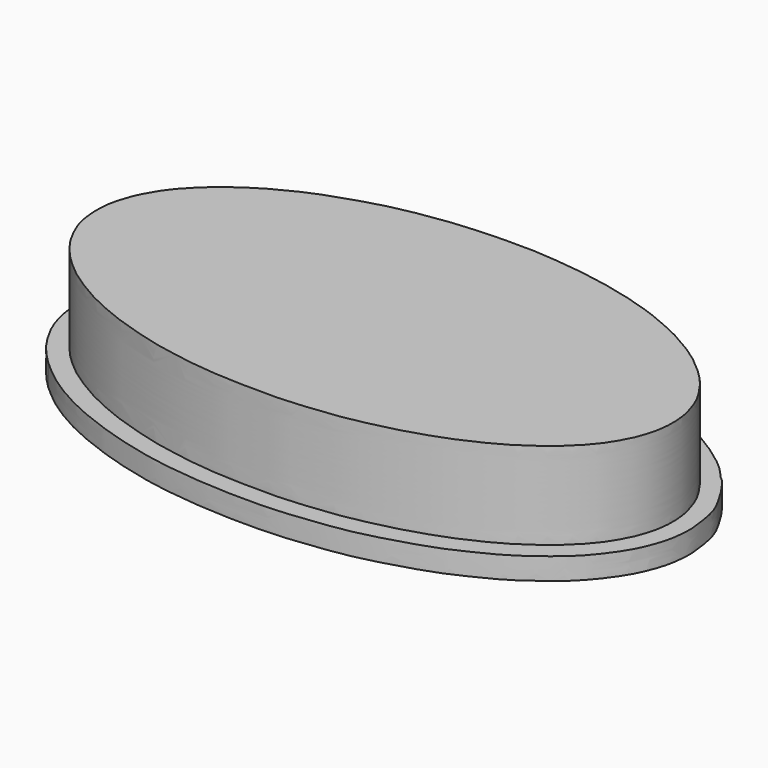
from build123d import *

# Parameters (mm, degrees)
F1_DEPTH = 25
F3_DEPTH = 20
F5_DEPTH = 5


with BuildPart() as f1:
    # F0 (on Top) → F1 (new body)
    with BuildSketch(Plane.XY):
        with BuildLine():
            add(Edge.make_bspline(
                [(34.0358316898, 17.3169132322), (33.4476789202, 17.5641404403), (32.2501782137, 18.0675041437), (30.4332568911, 18.8456503452), (26.5458099621, 21.0873539656), (24.065624831, 22.5549921237), (22.9424586309, 23.4723896584), (22.177769364, 23.9857726274), (21.7977464199, 24.240905419)],
                knots=[0, 0, 0, 0, 0.1524729552, 0.310440554, 0.548010114, 0.7392155609, 0.8703995536, 1, 1, 1, 1], degree=3))
            add(Edge.make_bspline(
                [(49.5530627668, 25.829186663), (49.2175624968, 26.1391159644), (48.4116629646, 26.8835919047), (46.3148833163, 28.9749191652), (44.4418731155, 29.9966643529), (43.4222602257, 30.8915696338), (40.3882785014, 32.2530635342), (38.1947362187, 32.7222442953), (36.7999978107, 32.7985698768), (35.5265061431, 32.7141553577), (34.6830293233, 32.6598792656), (33.6135211449, 32.0640992413), (33.1227722393, 31.8898564342), (32.0607615175, 31.0214181243), (31.3202387643, 30.0279013881), (31.0024455257, 28.7470802702), (30.8033739317, 28.3941141253), (30.639734315, 26.6818680994), (30.7773491516, 25.231773865), (31.1055848533, 23.5755229672), (31.7674728648, 21.7174406636), (32.5641603394, 19.8079329362), (33.5180350388, 18.1933600421), (34.0358316898, 17.3169132322)],
                knots=[0, 0, 0, 0, 0.046915721, 0.112695461, 0.1675430294, 0.2117088676, 0.2804891366, 0.3382933945, 0.3827652198, 0.4248388254, 0.4604244318, 0.5011356446, 0.5292923111, 0.572397878, 0.6164440192, 0.6583397554, 0.6829771094, 0.7311553636, 0.7785153787, 0.8273599893, 0.8804069601, 0.9350807024, 1, 1, 1, 1], degree=3))
            add(Edge.make_bspline(
                [(72.4661573768, 14.2735354602), (72.2503797037, 14.7846202656), (71.7467316351, 15.9775466305), (70.5855801926, 18.9823828978), (69.1331352852, 22.1196687726), (67.469869869, 25.2570284082), (65.5859966075, 28.0399807216), (63.3559909395, 30.3197692529), (61.9392648641, 31.3412090407), (60.2415334024, 32.2041848477), (58.3158261144, 32.5676774149), (56.7576875025, 32.1428926086), (55.4362116191, 31.7886878528), (53.7775728419, 30.7218799588), (52.2690188634, 29.3775118718), (51.09519616, 27.9212071835), (50.0955300637, 26.5650845574), (49.5530627668, 25.829186663)],
                knots=[0, 0, 0, 0, 0.0587868134, 0.137214683, 0.2198078442, 0.3022524755, 0.3836021207, 0.4611373913, 0.5188822036, 0.5787275215, 0.6397533973, 0.6946395127, 0.7456425071, 0.8068278183, 0.8691557751, 0.928997579, 1, 1, 1, 1], degree=3))
            add(Edge.make_bspline(
                [(95.3443199396, 25.829186663), (94.76514894, 26.6499634525), (93.605624146, 28.2931932383), (91.5410664023, 30.4849283896), (89.0581967349, 32.1219811288), (86.7685142442, 32.5498095573), (85.1705889296, 32.231310845), (83.3593928349, 31.6495928763), (80.657038907, 29.6609778895), (78.4698925646, 27.0063582933), (75.7484781589, 22.4368208371), (73.5913154677, 17.4571929016), (72.8078888813, 15.2404716233), (72.4661573768, 14.2735354602)],
                knots=[0, 0, 0, 0, 0.0892458193, 0.1786738982, 0.2671263381, 0.3441152747, 0.4082575946, 0.4783649797, 0.5709965073, 0.6669123211, 0.7860642359, 0.9066809937, 1, 1, 1, 1], degree=3))
            add(Edge.make_bspline(
                [(110.4229912162, 32.4321612716), (110.1992176029, 32.5079711219), (109.6668205349, 32.6883361858), (108.1704596353, 32.8698933903), (106.6576511404, 32.7421438682), (104.8067670081, 32.2761475322), (103.152086762, 31.5934274656), (101.1449077923, 30.6612586873), (98.5713095857, 28.9384101279), (96.7961238368, 27.351368053), (95.8155906874, 26.323302682), (95.3443199396, 25.829186663)],
                knots=[0, 0, 0, 0, 0.0715720068, 0.1702824834, 0.2719952784, 0.383493134, 0.4919287013, 0.6131342603, 0.7566552208, 0.8830419184, 1, 1, 1, 1], degree=3))
            add(Edge.make_bspline(
                [(113.9691248536, 28.8860332221), (113.8392852153, 29.2115324869), (113.5736065016, 29.8775712026), (112.8809534873, 30.8056987688), (111.858888257, 31.8587186714), (110.9070560621, 32.2388442049), (110.4229912162, 32.4321612716)],
                knots=[0, 0, 0, 0, 0.2257902927, 0.4620135676, 0.726401018, 1, 1, 1, 1], degree=3))
            add(Edge.make_bspline(
                [(110.9501197934, 17.3611138016), (111.0982394691, 17.585491889), (111.4789149936, 18.162155629), (112.5045884429, 20.1684724866), (113.499644758, 22.6669163147), (114.0631400063, 24.9611715507), (114.3154765684, 27.4037837217), (114.0749154089, 28.4332911366), (113.9691248536, 28.8860332221)],
                knots=[0, 0, 0, 0, 0.1128556626, 0.2900451163, 0.4870134032, 0.6715502675, 0.8555590618, 1, 1, 1, 1], degree=3))
            add(Edge.make_bspline(
                [(133.2026124001, 37.2338891029), (132.8170797937, 36.1804835436), (131.9409064256, 33.786481372), (128.4159602767, 28.9237509801), (124.9202151813, 25.6334106199), (119.765219259, 21.5666916039), (114.3079376948, 18.9309011926), (111.9671517822, 17.8365785347), (110.9501197934, 17.3611138016)],
                knots=[0, 0, 0, 0, 0.1411542771, 0.3207915916, 0.4856966922, 0.6758049102, 0.8591427028, 1, 1, 1, 1], degree=3))
            add(Edge.make_bspline(
                [(97.2121655941, 72.645150125), (97.5740366542, 72.5825349905), (98.3372578729, 72.450473589), (99.6275654245, 72.0335835137), (101.5644693044, 71.5729973592), (103.172183776, 71.102643774), (105.515069503, 70.328766432), (108.4907982473, 69.2170916536), (110.6192103862, 68.3644699643), (112.6640294755, 67.4370403502), (114.1710564811, 66.7912055924), (117.3265754705, 65.2233687527), (120.5549639336, 63.3079480409), (122.6641262641, 61.9116517758), (125.4404661366, 59.7500252854), (127.2636767367, 58.0830964656), (128.6371875593, 56.5869482408), (129.7584027165, 55.2635631844), (130.7255305473, 53.8193763895), (131.6902436253, 52.3264938292), (132.3709272255, 51.0632189902), (133.3205088542, 48.8126997585), (133.7339664667, 47.2737689824), (134.1661687952, 45.1735209887), (134.2363830593, 43.4369920353), (134.1476576256, 40.9224900858), (133.7697094215, 38.9831041937), (133.388357102, 37.8068200538), (133.2026124001, 37.2338891029)],
                knots=[0, 0, 0, 0, 0.0277879951, 0.058607581, 0.0955495418, 0.1297239881, 0.1710562276, 0.2182229525, 0.2587272302, 0.2972110453, 0.3309511551, 0.380254972, 0.4316077204, 0.473928873, 0.5229599626, 0.5648317884, 0.6019262473, 0.6364655614, 0.671330153, 0.7059734221, 0.7380451738, 0.7786259979, 0.8127363244, 0.8504560591, 0.8857545062, 0.9272430807, 0.9645623965, 1, 1, 1, 1], degree=3))
            add(Edge.make_bspline(
                [(97.2121655941, 54.3596819043), (97.7987393098, 54.800248629), (99.0028884937, 55.7046670301), (100.4091385032, 57.7157092459), (101.223264349, 60.3245355975), (101.5685784581, 62.1657699291), (101.2999908839, 64.4047039867), (100.9480807044, 65.9168836469), (100.0008706996, 68.3441032304), (99.2480137313, 69.8562905558), (98.2097126714, 71.3128013103), (97.5423965545, 72.2040853987), (97.2121655941, 72.645150125)],
                knots=[0, 0, 0, 0, 0.1035859558, 0.2126466646, 0.3270232564, 0.423515251, 0.5255552066, 0.6145107645, 0.7256690465, 0.8178319025, 0.9098515017, 1, 1, 1, 1], degree=3))
            add(Edge.make_bspline(
                [(82.1291357279, 56.7077957094), (82.4026140123, 56.3698447067), (82.963712573, 55.676466724), (84.0275494094, 54.6532926092), (85.3756196192, 53.6799288459), (87.3535451249, 52.933541428), (89.4476547176, 52.2911218723), (92.4874821669, 52.4568502902), (94.7697884742, 53.0369772849), (96.3783165189, 53.9080988893), (97.2121655941, 54.3596819043)],
                knots=[0, 0, 0, 0, 0.0998445345, 0.2048521867, 0.316744265, 0.4419937907, 0.5715902471, 0.7215564787, 0.8556569321, 1, 1, 1, 1], degree=3))
            add(Edge.make_bspline(
                [(78.8498073816, 75.2131044865), (78.8773537286, 74.9967124038), (78.9845205969, 74.1548562472), (79.3084243745, 65.0257532278), (79.4980993853, 64.198901245), (79.6163450577, 62.7777373591), (79.9629483921, 61.3501349454), (80.2751407477, 60.3050167909), (80.7918737567, 59.0751439988), (81.0427594882, 58.364824143), (81.7175410013, 57.2360883055), (82.0074569893, 56.8639735527), (82.1291357279, 56.7077957094)],
                knots=[0, 0, 0, 0, 0.0833236609, 0.3241640637, 0.4068239863, 0.4975923229, 0.5957741464, 0.681047312, 0.7716500607, 0.8436686033, 0.9343871744, 1, 1, 1, 1], degree=3))
            add(Edge.make_bspline(
                [(75.2362757921, 68.6377882957), (76.440786322, 70.8295603593), (77.6452968518, 73.0213324229), (78.8498073816, 75.2131044865)],
                knots=[0, 0, 0, 0, 7.5028257048, 7.5028257048, 7.5028257048, 7.5028257048], degree=3))
            add(Edge.make_bspline(
                [(69.7084739804, 68.6377882957), (69.9192899463, 68.6703608905), (70.4248592813, 68.7484750173), (71.7983720484, 68.8279669946), (73.3096844558, 68.8074402385), (74.6123934206, 68.7650405678), (75.0556896688, 68.6746221534), (75.2362757921, 68.6377882957)],
                knots=[0, 0, 0, 0, 0.1612677922, 0.3867451413, 0.6307237586, 0.8495674955, 1, 1, 1, 1], degree=3))
            add(Edge.make_bspline(
                [(66.0212412477, 75.2131044865), (66.0680787115, 75.1709091511), (66.2348164111, 75.020697065), (66.9763571722, 73.575020503), (67.7461681854, 72.2039620135), (68.2254540459, 71.2250311682), (69.1416515328, 69.5845501436), (69.536287485, 68.9253908868), (69.7084739804, 68.6377882957)],
                knots=[0, 0, 0, 0, 0.0756582956, 0.2693376012, 0.4665677335, 0.6289678894, 0.8381122691, 1, 1, 1, 1], degree=3))
            add(Edge.make_bspline(
                [(62.8076046705, 56.8379759789), (62.9462477814, 57.0091801543), (63.2963279713, 57.44147852), (64.1466778286, 58.9956441307), (64.4411576897, 59.9066568586), (64.7560571573, 60.5741517238), (65.0959066509, 61.954268501), (65.2796846521, 63.1161452229), (65.4162408133, 64.1191649249), (65.6683981331, 66.2072739146), (65.7805410939, 69.6857977181), (65.9252000626, 72.83052296), (66.0012336184, 74.5542329223), (66.0157574914, 75.0325188194), (66.0212412477, 75.2131044865)],
                knots=[0, 0, 0, 0, 0.0603128045, 0.1522925871, 0.220037469, 0.2783823137, 0.3604742859, 0.4356327328, 0.503466178, 0.601945472, 0.7330912741, 0.8578420953, 0.9463256596, 1, 1, 1, 1], degree=3))
            add(Edge.make_bspline(
                [(43.6311997473, 60.7790537179), (43.6561647645, 60.6210218005), (43.7224096107, 60.201683011), (44.0963012903, 58.7177792824), (45.0328384456, 56.9468079363), (46.3651551524, 55.5411873029), (47.4410133309, 54.5627940526), (48.7989352026, 53.747850647), (50.0560836094, 53.197155881), (51.2500974958, 52.7987132919), (52.4873003994, 52.512711786), (53.9020966587, 52.4059689633), (55.2611573225, 52.4154501935), (56.9822326897, 52.6874592673), (58.1441754833, 53.1406990196), (59.3819231762, 53.6646918939), (60.6037828696, 54.4564795715), (61.8132226787, 55.4218072636), (62.4696231863, 56.3566329856), (62.8076046705, 56.8379759789)],
                knots=[0, 0, 0, 0, 0.0362563833, 0.0962065648, 0.1668713763, 0.2349488992, 0.2942441466, 0.3556114853, 0.4133235215, 0.4680862267, 0.523423129, 0.5814607861, 0.6393960891, 0.7037510198, 0.758865877, 0.8152368666, 0.8744661122, 0.9353624361, 1, 1, 1, 1], degree=3))
            add(Edge.make_bspline(
                [(47.739982605, 72.7061629295), (47.5183067275, 72.4112019635), (47.0002154546, 71.7218319512), (45.787950106, 69.8620311412), (44.9768274686, 68.506211302), (44.1699013864, 66.5112317524), (43.6968374971, 65.0517218012), (43.3975190761, 62.8576661082), (43.553544056, 61.4698086755), (43.6311997473, 60.7790537179)],
                knots=[0, 0, 0, 0, 0.1163646638, 0.2719624593, 0.4082598493, 0.5598433828, 0.6921999261, 0.8468038416, 1, 1, 1, 1], degree=3))
            add(Edge.make_bspline(
                [(38.4550876915, 69.8983743787), (39.3157595053, 70.214458155), (40.8951239139, 70.7944835009), (42.6512293775, 71.331856342), (44.6152248884, 71.8728722107), (46.5646303717, 72.4716645372), (47.3863888579, 72.6356162773), (47.739982605, 72.7061629295)],
                knots=[0, 0, 0, 0, 0.2341134882, 0.4296068548, 0.6369370725, 0.8437779674, 1, 1, 1, 1], degree=3))
            add(Edge.make_bspline(
                [(30.4033756256, 66.5704160929), (30.7834526713, 66.7535528235), (31.5737347211, 67.1343431726), (32.9206809219, 67.7727016909), (34.492802435, 68.4643074055), (35.932157098, 68.98150478), (37.0121978068, 69.4532100285), (37.9541937803, 69.7438372135), (38.4550876915, 69.8983743787)],
                knots=[0, 0, 0, 0, 0.1569444641, 0.3263296065, 0.5093022833, 0.6798775648, 0.8297791252, 1, 1, 1, 1], degree=3))
            add(Edge.make_bspline(
                [(23.7280558795, 62.8519356251), (24.1090498698, 63.106482675), (24.9569245537, 63.6729588004), (26.8784788798, 64.7742576304), (28.5000309479, 65.6910963169), (29.7594129515, 66.2729139531), (30.4033756256, 66.5704160929)],
                knots=[0, 0, 0, 0, 0.2193582227, 0.4881659249, 0.7382827143, 1, 1, 1, 1], degree=3))
            add(Edge.make_bspline(
                [(11.0201835632, 46.1974367499), (11.0626302993, 46.4986061546), (11.1568598056, 47.1671862846), (11.5779021429, 48.5853015791), (12.0509390695, 50.1130301261), (13.3306843421, 52.4858335316), (14.287789908, 54.124368868), (15.5862114155, 55.7504351644), (16.5663161859, 56.9620882963), (18.1564903174, 58.4952422577), (19.2073773774, 59.4845954336), (21.0057071475, 60.9918118229), (22.5064889097, 62.008944967), (23.3380826418, 62.5828191505), (23.7280558795, 62.8519356251)],
                knots=[0, 0, 0, 0, 0.0614658821, 0.1364510033, 0.2170044478, 0.3191064097, 0.4073672556, 0.4958420105, 0.5756505855, 0.6670123426, 0.7440175705, 0.8391344212, 0.9245625981, 1, 1, 1, 1], degree=3))
            add(Edge.make_bspline(
                [(11.0201835632, 40.0322526693), (10.9817647528, 40.2013220545), (10.8830571635, 40.6357038384), (10.7922333032, 42.1744449565), (10.5882207159, 43.3489818258), (10.8573447336, 45.1236428598), (11.0201835632, 46.1974367499)],
                knots=[0, 0, 0, 0, 0.161443737, 0.4147895753, 0.6459068146, 1, 1, 1, 1], degree=3))
            add(Edge.make_bspline(
                [(12.9506383091, 34.4545952976), (12.8661655132, 34.5945628286), (12.6412202929, 34.9672866947), (12.0341801499, 36.4646413778), (11.6263165702, 37.4327544173), (11.3729877346, 38.4752945651), (11.1421418916, 39.1805070259), (11.0617253004, 39.7421290338), (11.0201835632, 40.0322526693)],
                knots=[0, 0, 0, 0, 0.1290302479, 0.343598637, 0.5241412816, 0.6963943359, 0.8431628786, 1, 1, 1, 1], degree=3))
            add(Edge.make_bspline(
                [(21.7977464199, 24.240905419), (21.4465401692, 24.5362390903), (20.8431305596, 25.0436536793), (20.3496605189, 25.4692776538), (19.6740697479, 26.0671289829), (18.9387356354, 26.7289577112), (18.2263362157, 27.3600787751), (17.0658016057, 28.5512297476), (16.4103508633, 29.4193223291), (15.7552288966, 30.0396565251), (14.538272363, 31.754859677), (13.7535699101, 32.9894495251), (13.3208495166, 33.6825738709), (13.0754203265, 34.1943806172), (12.9506383091, 34.4545952976)],
                knots=[0, 0, 0, 0, 0.0890226075, 0.152950287, 0.2275004807, 0.3059893942, 0.3844546803, 0.4868916612, 0.5690151354, 0.6438827277, 0.7592337364, 0.856560927, 0.9270721755, 1, 1, 1, 1], degree=3))
        make_face()
    extrude(amount=F1_DEPTH)

    # F2 (on face) → F3 (join)
    with BuildSketch(Plane.XY.offset(25)):
        with BuildLine():
            add(Edge.make_bspline(
                [(64.1932785511, 80.0095200539), (63.565097387, 79.9743103739), (62.2461072538, 79.9458790689), (57.3739359631, 79.4084671116), (48.5699647629, 78.032435154), (41.1951254049, 75.9316473887), (34.3910656172, 73.5607485841), (31.0139381103, 72.161828868), (25.274915393, 69.2443403948), (21.9811877871, 67.1180675903), (18.0706644799, 64.3489867902), (15.1336680392, 61.5436530127), (13.2181049566, 59.6051380419), (11.3875068762, 57.319472863), (9.8299855307, 54.7433356197), (8.5748754761, 52.4149060647), (7.5481289883, 49.3809861264), (6.9317583483, 46.8940450704), (6.829042755, 44.7433603068), (6.7713127293, 43.4529938065), (6.8315643525, 42.14962003), (7.0616893876, 39.9525992406), (7.7038431271, 36.9391144552), (9.8431434866, 32.5560572855), (10.9738504536, 30.761575795), (13.5168293345, 27.3362280568), (16.9690753116, 24.1208801136), (20.0053626014, 21.5802978594), (24.2098126359, 18.8679793737), (28.7294785485, 16.2985505451), (33.179903767, 14.4010494582), (37.1056162536, 12.7436202761), (46.9759747071, 9.7588413941), (50.4076187571, 9.2950353076), (55.4452314712, 8.1744424678), (62.5995206913, 7.4375985603), (66.5062670265, 7.1716262187), (75.9938560253, 7.0287903779), (80.2310315585, 7.1824708062), (89.8348514384, 8.1241698512), (95.0819411391, 9.1446488721), (101.5505962165, 10.5651729135), (107.6708928965, 12.516158309), (111.986937401, 14.0316194846), (118.1522056393, 16.8792986465), (122.6892983395, 19.4302909689), (127.0664823448, 22.6657432186), (130.3773571899, 25.4295493732), (133.5030379053, 28.8288857561), (135.176940134, 31.3090531553), (137.1103949405, 34.6534218443), (138.0792140855, 37.5077176007), (138.7315456536, 39.9339903484), (139.0671424253, 43.0069926959), (138.8936578635, 46.3727665184), (138.4150845887, 48.899689301), (136.9432138183, 53.2204933604), (135.2869357084, 55.8788002267), (133.0804546035, 59.037225715), (130.6631100004, 61.6658486486), (125.7827920081, 65.8880796348), (122.0060244999, 68.251893425), (116.6434922476, 71.3734710219), (112.5910732387, 72.9104750013), (109.6941673318, 74.2633614437), (104.1513666143, 76.0756978044), (98.6618869276, 77.5158410683), (93.702205986, 78.5190348424), (89.779468638, 79.1713687107), (85.7201553588, 79.687266379), (82.6350278277, 79.9340293547), (78.134913407, 80.4239776865), (68.1274936453, 80.3250756127), (65.0935824911, 80.0599822699), (64.1932785511, 80.0095200539)],
                knots=[0, 0, 0, 0, 0.0089976116, 0.0233811679, 0.0433640164, 0.0622301413, 0.0796152864, 0.0925794374, 0.1090928074, 0.1225462593, 0.1369665298, 0.1503503188, 0.161241893, 0.1725275458, 0.1840052526, 0.1948500814, 0.2066748274, 0.2174301411, 0.2270547191, 0.2344936959, 0.2419368938, 0.2515849995, 0.2635341678, 0.2779953323, 0.2878419322, 0.3012880992, 0.3158348098, 0.3290272653, 0.343794328, 0.3590876554, 0.3732951877, 0.3874884912, 0.408532029, 0.4211655226, 0.4360551123, 0.4536367778, 0.4674269503, 0.4872650668, 0.5018373118, 0.5219521527, 0.5377349785, 0.5546591854, 0.571400299, 0.5857212533, 0.6028200473, 0.6182146053, 0.6334938109, 0.6474634402, 0.6615017244, 0.6731047354, 0.6860395269, 0.6975668099, 0.7079789426, 0.7196689714, 0.7317123176, 0.7425147568, 0.7564773015, 0.7684652709, 0.7811463439, 0.7939122617, 0.8105213087, 0.8249153675, 0.841348809, 0.855069377, 0.8668341491, 0.8827291668, 0.8988344858, 0.9136503123, 0.9269635549, 0.9402521141, 0.9516483406, 0.9659213884, 0.9871046991, 1, 1, 1, 1], degree=3))
        make_face()
        with BuildLine():
            add(Edge.make_bspline(
                [(49.5530627668, 25.829186663), (49.2175624968, 26.1391159644), (48.4116629646, 26.8835919047), (46.3148833163, 28.9749191652), (44.4418731155, 29.9966643529), (43.4222602257, 30.8915696338), (40.3882785014, 32.2530635342), (38.1947362187, 32.7222442953), (36.7999978107, 32.7985698768), (35.5265061431, 32.7141553577), (34.6830293233, 32.6598792656), (33.6135211449, 32.0640992413), (33.1227722393, 31.8898564342), (32.0607615175, 31.0214181243), (31.3202387643, 30.0279013881), (31.0024455257, 28.7470802702), (30.8033739317, 28.3941141253), (30.639734315, 26.6818680994), (30.7773491516, 25.231773865), (31.1055848533, 23.5755229672), (31.7674728648, 21.7174406636), (32.5641603394, 19.8079329362), (33.5180350388, 18.1933600421), (34.0358316898, 17.3169132322)],
                knots=[0, 0, 0, 0, 0.046915721, 0.112695461, 0.1675430294, 0.2117088676, 0.2804891366, 0.3382933945, 0.3827652198, 0.4248388254, 0.4604244318, 0.5011356446, 0.5292923111, 0.572397878, 0.6164440192, 0.6583397554, 0.6829771094, 0.7311553636, 0.7785153787, 0.8273599893, 0.8804069601, 0.9350807024, 1, 1, 1, 1], degree=3))
            add(Edge.make_bspline(
                [(34.0358316898, 17.3169132322), (33.4476789202, 17.5641404403), (32.2501782137, 18.0675041437), (30.4332568911, 18.8456503452), (26.5458099621, 21.0873539656), (24.065624831, 22.5549921237), (22.9424586309, 23.4723896584), (22.177769364, 23.9857726274), (21.7977464199, 24.240905419)],
                knots=[0, 0, 0, 0, 0.1524729552, 0.310440554, 0.548010114, 0.7392155609, 0.8703995536, 1, 1, 1, 1], degree=3))
            add(Edge.make_bspline(
                [(21.7977464199, 24.240905419), (21.4465401692, 24.5362390903), (20.8431305596, 25.0436536793), (20.3496605189, 25.4692776538), (19.6740697479, 26.0671289829), (18.9387356354, 26.7289577112), (18.2263362157, 27.3600787751), (17.0658016057, 28.5512297476), (16.4103508633, 29.4193223291), (15.7552288966, 30.0396565251), (14.538272363, 31.754859677), (13.7535699101, 32.9894495251), (13.3208495166, 33.6825738709), (13.0754203265, 34.1943806172), (12.9506383091, 34.4545952976)],
                knots=[0, 0, 0, 0, 0.0890226075, 0.152950287, 0.2275004807, 0.3059893942, 0.3844546803, 0.4868916612, 0.5690151354, 0.6438827277, 0.7592337364, 0.856560927, 0.9270721755, 1, 1, 1, 1], degree=3))
            add(Edge.make_bspline(
                [(12.9506383091, 34.4545952976), (12.8661655132, 34.5945628286), (12.6412202929, 34.9672866947), (12.0341801499, 36.4646413778), (11.6263165702, 37.4327544173), (11.3729877346, 38.4752945651), (11.1421418916, 39.1805070259), (11.0617253004, 39.7421290338), (11.0201835632, 40.0322526693)],
                knots=[0, 0, 0, 0, 0.1290302479, 0.343598637, 0.5241412816, 0.6963943359, 0.8431628786, 1, 1, 1, 1], degree=3))
            add(Edge.make_bspline(
                [(11.0201835632, 40.0322526693), (10.9817647528, 40.2013220545), (10.8830571635, 40.6357038384), (10.7922333032, 42.1744449565), (10.5882207159, 43.3489818258), (10.8573447336, 45.1236428598), (11.0201835632, 46.1974367499)],
                knots=[0, 0, 0, 0, 0.161443737, 0.4147895753, 0.6459068146, 1, 1, 1, 1], degree=3))
            add(Edge.make_bspline(
                [(11.0201835632, 46.1974367499), (11.0626302993, 46.4986061546), (11.1568598056, 47.1671862846), (11.5779021429, 48.5853015791), (12.0509390695, 50.1130301261), (13.3306843421, 52.4858335316), (14.287789908, 54.124368868), (15.5862114155, 55.7504351644), (16.5663161859, 56.9620882963), (18.1564903174, 58.4952422577), (19.2073773774, 59.4845954336), (21.0057071475, 60.9918118229), (22.5064889097, 62.008944967), (23.3380826418, 62.5828191505), (23.7280558795, 62.8519356251)],
                knots=[0, 0, 0, 0, 0.0614658821, 0.1364510033, 0.2170044478, 0.3191064097, 0.4073672556, 0.4958420105, 0.5756505855, 0.6670123426, 0.7440175705, 0.8391344212, 0.9245625981, 1, 1, 1, 1], degree=3))
            add(Edge.make_bspline(
                [(23.7280558795, 62.8519356251), (24.1090498698, 63.106482675), (24.9569245537, 63.6729588004), (26.8784788798, 64.7742576304), (28.5000309479, 65.6910963169), (29.7594129515, 66.2729139531), (30.4033756256, 66.5704160929)],
                knots=[0, 0, 0, 0, 0.2193582227, 0.4881659249, 0.7382827143, 1, 1, 1, 1], degree=3))
            add(Edge.make_bspline(
                [(30.4033756256, 66.5704160929), (30.7834526713, 66.7535528235), (31.5737347211, 67.1343431726), (32.9206809219, 67.7727016909), (34.492802435, 68.4643074055), (35.932157098, 68.98150478), (37.0121978068, 69.4532100285), (37.9541937803, 69.7438372135), (38.4550876915, 69.8983743787)],
                knots=[0, 0, 0, 0, 0.1569444641, 0.3263296065, 0.5093022833, 0.6798775648, 0.8297791252, 1, 1, 1, 1], degree=3))
            add(Edge.make_bspline(
                [(38.4550876915, 69.8983743787), (39.3157595053, 70.214458155), (40.8951239139, 70.7944835009), (42.6512293775, 71.331856342), (44.6152248884, 71.8728722107), (46.5646303717, 72.4716645372), (47.3863888579, 72.6356162773), (47.739982605, 72.7061629295)],
                knots=[0, 0, 0, 0, 0.2341134882, 0.4296068548, 0.6369370725, 0.8437779674, 1, 1, 1, 1], degree=3))
            add(Edge.make_bspline(
                [(47.739982605, 72.7061629295), (47.5183067275, 72.4112019635), (47.0002154546, 71.7218319512), (45.787950106, 69.8620311412), (44.9768274686, 68.506211302), (44.1699013864, 66.5112317524), (43.6968374971, 65.0517218012), (43.3975190761, 62.8576661082), (43.553544056, 61.4698086755), (43.6311997473, 60.7790537179)],
                knots=[0, 0, 0, 0, 0.1163646638, 0.2719624593, 0.4082598493, 0.5598433828, 0.6921999261, 0.8468038416, 1, 1, 1, 1], degree=3))
            add(Edge.make_bspline(
                [(43.6311997473, 60.7790537179), (43.6561647645, 60.6210218005), (43.7224096107, 60.201683011), (44.0963012903, 58.7177792824), (45.0328384456, 56.9468079363), (46.3651551524, 55.5411873029), (47.4410133309, 54.5627940526), (48.7989352026, 53.747850647), (50.0560836094, 53.197155881), (51.2500974958, 52.7987132919), (52.4873003994, 52.512711786), (53.9020966587, 52.4059689633), (55.2611573225, 52.4154501935), (56.9822326897, 52.6874592673), (58.1441754833, 53.1406990196), (59.3819231762, 53.6646918939), (60.6037828696, 54.4564795715), (61.8132226787, 55.4218072636), (62.4696231863, 56.3566329856), (62.8076046705, 56.8379759789)],
                knots=[0, 0, 0, 0, 0.0362563833, 0.0962065648, 0.1668713763, 0.2349488992, 0.2942441466, 0.3556114853, 0.4133235215, 0.4680862267, 0.523423129, 0.5814607861, 0.6393960891, 0.7037510198, 0.758865877, 0.8152368666, 0.8744661122, 0.9353624361, 1, 1, 1, 1], degree=3))
            add(Edge.make_bspline(
                [(62.8076046705, 56.8379759789), (62.9462477814, 57.0091801543), (63.2963279713, 57.44147852), (64.1466778286, 58.9956441307), (64.4411576897, 59.9066568586), (64.7560571573, 60.5741517238), (65.0959066509, 61.954268501), (65.2796846521, 63.1161452229), (65.4162408133, 64.1191649249), (65.6683981331, 66.2072739146), (65.7805410939, 69.6857977181), (65.9252000626, 72.83052296), (66.0012336184, 74.5542329223), (66.0157574914, 75.0325188194), (66.0212412477, 75.2131044865)],
                knots=[0, 0, 0, 0, 0.0603128045, 0.1522925871, 0.220037469, 0.2783823137, 0.3604742859, 0.4356327328, 0.503466178, 0.601945472, 0.7330912741, 0.8578420953, 0.9463256596, 1, 1, 1, 1], degree=3))
            add(Edge.make_bspline(
                [(66.0212412477, 75.2131044865), (66.0680787115, 75.1709091511), (66.2348164111, 75.020697065), (66.9763571722, 73.575020503), (67.7461681854, 72.2039620135), (68.2254540459, 71.2250311682), (69.1416515328, 69.5845501436), (69.536287485, 68.9253908868), (69.7084739804, 68.6377882957)],
                knots=[0, 0, 0, 0, 0.0756582956, 0.2693376012, 0.4665677335, 0.6289678894, 0.8381122691, 1, 1, 1, 1], degree=3))
            add(Edge.make_bspline(
                [(69.7084739804, 68.6377882957), (69.9192899463, 68.6703608905), (70.4248592813, 68.7484750173), (71.7983720484, 68.8279669946), (73.3096844558, 68.8074402385), (74.6123934206, 68.7650405678), (75.0556896688, 68.6746221534), (75.2362757921, 68.6377882957)],
                knots=[0, 0, 0, 0, 0.1612677922, 0.3867451413, 0.6307237586, 0.8495674955, 1, 1, 1, 1], degree=3))
            add(Edge.make_bspline(
                [(75.2362757921, 68.6377882957), (76.440786322, 70.8295603593), (77.6452968518, 73.0213324229), (78.8498073816, 75.2131044865)],
                knots=[0, 0, 0, 0, 7.5028257048, 7.5028257048, 7.5028257048, 7.5028257048], degree=3))
            add(Edge.make_bspline(
                [(78.8498073816, 75.2131044865), (78.8773537286, 74.9967124038), (78.9845205969, 74.1548562472), (79.3084243745, 65.0257532278), (79.4980993853, 64.198901245), (79.6163450577, 62.7777373591), (79.9629483921, 61.3501349454), (80.2751407477, 60.3050167909), (80.7918737567, 59.0751439988), (81.0427594882, 58.364824143), (81.7175410013, 57.2360883055), (82.0074569893, 56.8639735527), (82.1291357279, 56.7077957094)],
                knots=[0, 0, 0, 0, 0.0833236609, 0.3241640637, 0.4068239863, 0.4975923229, 0.5957741464, 0.681047312, 0.7716500607, 0.8436686033, 0.9343871744, 1, 1, 1, 1], degree=3))
            add(Edge.make_bspline(
                [(82.1291357279, 56.7077957094), (82.4026140123, 56.3698447067), (82.963712573, 55.676466724), (84.0275494094, 54.6532926092), (85.3756196192, 53.6799288459), (87.3535451249, 52.933541428), (89.4476547176, 52.2911218723), (92.4874821669, 52.4568502902), (94.7697884742, 53.0369772849), (96.3783165189, 53.9080988893), (97.2121655941, 54.3596819043)],
                knots=[0, 0, 0, 0, 0.0998445345, 0.2048521867, 0.316744265, 0.4419937907, 0.5715902471, 0.7215564787, 0.8556569321, 1, 1, 1, 1], degree=3))
            add(Edge.make_bspline(
                [(97.2121655941, 54.3596819043), (97.7987393098, 54.800248629), (99.0028884937, 55.7046670301), (100.4091385032, 57.7157092459), (101.223264349, 60.3245355975), (101.5685784581, 62.1657699291), (101.2999908839, 64.4047039867), (100.9480807044, 65.9168836469), (100.0008706996, 68.3441032304), (99.2480137313, 69.8562905558), (98.2097126714, 71.3128013103), (97.5423965545, 72.2040853987), (97.2121655941, 72.645150125)],
                knots=[0, 0, 0, 0, 0.1035859558, 0.2126466646, 0.3270232564, 0.423515251, 0.5255552066, 0.6145107645, 0.7256690465, 0.8178319025, 0.9098515017, 1, 1, 1, 1], degree=3))
            add(Edge.make_bspline(
                [(97.2121655941, 72.645150125), (97.5740366542, 72.5825349905), (98.3372578729, 72.450473589), (99.6275654245, 72.0335835137), (101.5644693044, 71.5729973592), (103.172183776, 71.102643774), (105.515069503, 70.328766432), (108.4907982473, 69.2170916536), (110.6192103862, 68.3644699643), (112.6640294755, 67.4370403502), (114.1710564811, 66.7912055924), (117.3265754705, 65.2233687527), (120.5549639336, 63.3079480409), (122.6641262641, 61.9116517758), (125.4404661366, 59.7500252854), (127.2636767367, 58.0830964656), (128.6371875593, 56.5869482408), (129.7584027165, 55.2635631844), (130.7255305473, 53.8193763895), (131.6902436253, 52.3264938292), (132.3709272255, 51.0632189902), (133.3205088542, 48.8126997585), (133.7339664667, 47.2737689824), (134.1661687952, 45.1735209887), (134.2363830593, 43.4369920353), (134.1476576256, 40.9224900858), (133.7697094215, 38.9831041937), (133.388357102, 37.8068200538), (133.2026124001, 37.2338891029)],
                knots=[0, 0, 0, 0, 0.0277879951, 0.058607581, 0.0955495418, 0.1297239881, 0.1710562276, 0.2182229525, 0.2587272302, 0.2972110453, 0.3309511551, 0.380254972, 0.4316077204, 0.473928873, 0.5229599626, 0.5648317884, 0.6019262473, 0.6364655614, 0.671330153, 0.7059734221, 0.7380451738, 0.7786259979, 0.8127363244, 0.8504560591, 0.8857545062, 0.9272430807, 0.9645623965, 1, 1, 1, 1], degree=3))
            add(Edge.make_bspline(
                [(133.2026124001, 37.2338891029), (132.8170797937, 36.1804835436), (131.9409064256, 33.786481372), (128.4159602767, 28.9237509801), (124.9202151813, 25.6334106199), (119.765219259, 21.5666916039), (114.3079376948, 18.9309011926), (111.9671517822, 17.8365785347), (110.9501197934, 17.3611138016)],
                knots=[0, 0, 0, 0, 0.1411542771, 0.3207915916, 0.4856966922, 0.6758049102, 0.8591427028, 1, 1, 1, 1], degree=3))
            add(Edge.make_bspline(
                [(110.9501197934, 17.3611138016), (111.0982394691, 17.585491889), (111.4789149936, 18.162155629), (112.5045884429, 20.1684724866), (113.499644758, 22.6669163147), (114.0631400063, 24.9611715507), (114.3154765684, 27.4037837217), (114.0749154089, 28.4332911366), (113.9691248536, 28.8860332221)],
                knots=[0, 0, 0, 0, 0.1128556626, 0.2900451163, 0.4870134032, 0.6715502675, 0.8555590618, 1, 1, 1, 1], degree=3))
            add(Edge.make_bspline(
                [(113.9691248536, 28.8860332221), (113.8392852153, 29.2115324869), (113.5736065016, 29.8775712026), (112.8809534873, 30.8056987688), (111.858888257, 31.8587186714), (110.9070560621, 32.2388442049), (110.4229912162, 32.4321612716)],
                knots=[0, 0, 0, 0, 0.2257902927, 0.4620135676, 0.726401018, 1, 1, 1, 1], degree=3))
            add(Edge.make_bspline(
                [(110.4229912162, 32.4321612716), (110.1992176029, 32.5079711219), (109.6668205349, 32.6883361858), (108.1704596353, 32.8698933903), (106.6576511404, 32.7421438682), (104.8067670081, 32.2761475322), (103.152086762, 31.5934274656), (101.1449077923, 30.6612586873), (98.5713095857, 28.9384101279), (96.7961238368, 27.351368053), (95.8155906874, 26.323302682), (95.3443199396, 25.829186663)],
                knots=[0, 0, 0, 0, 0.0715720068, 0.1702824834, 0.2719952784, 0.383493134, 0.4919287013, 0.6131342603, 0.7566552208, 0.8830419184, 1, 1, 1, 1], degree=3))
            add(Edge.make_bspline(
                [(95.3443199396, 25.829186663), (94.76514894, 26.6499634525), (93.605624146, 28.2931932383), (91.5410664023, 30.4849283896), (89.0581967349, 32.1219811288), (86.7685142442, 32.5498095573), (85.1705889296, 32.231310845), (83.3593928349, 31.6495928763), (80.657038907, 29.6609778895), (78.4698925646, 27.0063582933), (75.7484781589, 22.4368208371), (73.5913154677, 17.4571929016), (72.8078888813, 15.2404716233), (72.4661573768, 14.2735354602)],
                knots=[0, 0, 0, 0, 0.0892458193, 0.1786738982, 0.2671263381, 0.3441152747, 0.4082575946, 0.4783649797, 0.5709965073, 0.6669123211, 0.7860642359, 0.9066809937, 1, 1, 1, 1], degree=3))
            add(Edge.make_bspline(
                [(72.4661573768, 14.2735354602), (72.2503797037, 14.7846202656), (71.7467316351, 15.9775466305), (70.5855801926, 18.9823828978), (69.1331352852, 22.1196687726), (67.469869869, 25.2570284082), (65.5859966075, 28.0399807216), (63.3559909395, 30.3197692529), (61.9392648641, 31.3412090407), (60.2415334024, 32.2041848477), (58.3158261144, 32.5676774149), (56.7576875025, 32.1428926086), (55.4362116191, 31.7886878528), (53.7775728419, 30.7218799588), (52.2690188634, 29.3775118718), (51.09519616, 27.9212071835), (50.0955300637, 26.5650845574), (49.5530627668, 25.829186663)],
                knots=[0, 0, 0, 0, 0.0587868134, 0.137214683, 0.2198078442, 0.3022524755, 0.3836021207, 0.4611373913, 0.5188822036, 0.5787275215, 0.6397533973, 0.6946395127, 0.7456425071, 0.8068278183, 0.8691557751, 0.928997579, 1, 1, 1, 1], degree=3))
        make_face(mode=Mode.SUBTRACT)
    extrude(amount=-F3_DEPTH)


with BuildPart() as f5:
    # F4 (on face) → F5 (new body)
    with BuildSketch(Plane(origin=(0, 0, 5), x_dir=(1, 0, 0), z_dir=(0, 0, -1))):
        with BuildLine():
            add(Edge.make_bspline(
                [(105.8264374733, -79.378478229), (104.9311718845, -79.6344264492), (102.7140333418, -80.2682860223), (95.6917314782, -81.9374465214), (91.3211527795, -82.6630553977), (82.4341629709, -83.7616542542), (76.0508421289, -83.9923077624), (71.357695648, -83.9690211157), (64.9858777208, -83.7560765719), (59.4167123751, -83.3965109283), (53.2635651328, -82.4065748898), (49.9853201354, -81.8081418532), (45.2309853891, -80.7392196115), (40.7033302061, -79.4746997066), (37.0833397386, -78.3277800066), (33.9053924153, -77.2279207825), (31.1096962762, -76.0538145701), (28.1424176903, -74.6923353526), (23.5150049179, -72.4233783318), (19.74780866, -69.9289283308), (17.5687673415, -68.51434844), (15.4809749411, -66.7528372953), (13.3667594383, -65.0186687565), (11.5125142924, -63.092886194), (9.4220209957, -60.6946561288), (7.5287311933, -58.298831876), (6.150019025, -55.8788346041), (5.2499245351, -54.073118485), (4.223275113, -51.7827247742), (3.5495794888, -49.2466724579), (3.1878318107, -47.4159431716), (2.9787469976, -46.3677092597), (2.8410908681, -44.8483895951), (2.7980812017, -42.2656484322), (3.0931892281, -39.0653981475), (4.184467417, -34.7816639255), (5.7114784175, -31.5224153963), (8.08539549, -27.4850183547), (9.7143440053, -25.6176338904), (11.0914827079, -23.9088987653), (12.3719690817, -22.6798193468), (13.0531769246, -22.0259595662)],
                knots=[0, 0, 0, 0, 0.0242516443, 0.0600595576, 0.0897464233, 0.1299206492, 0.1644735525, 0.1936477138, 0.2274666179, 0.2602981912, 0.293592307, 0.3185464598, 0.3481318813, 0.3778419124, 0.4042221876, 0.4289440648, 0.4522390093, 0.4766820624, 0.5077162037, 0.5366094472, 0.558300131, 0.5804539541, 0.6028405552, 0.6249933682, 0.649139468, 0.6730564805, 0.6954560596, 0.7146573627, 0.7360552646, 0.7582991401, 0.7765964641, 0.7903263774, 0.8067280642, 0.8283497638, 0.8529479232, 0.8811352533, 0.9074450289, 0.9365254457, 0.9578459211, 0.9775743891, 1, 1, 1, 1], degree=3))
            add(Edge.make_bspline(
                [(105.8264374733, -79.378478229), (106.8423086619, -79.0483873972), (109.1058506379, -78.3128862213), (113.989780826, -76.4582088385), (118.6090843896, -74.5702212963), (124.9319635568, -71.0624654274), (131.7162846553, -66.2563931293), (133.876775259, -63.7454880722), (134.7959786654, -62.6771971583)],
                knots=[0, 0, 0, 0, 0.1309381006, 0.2917534134, 0.4507900173, 0.6429428883, 0.8480863037, 1, 1, 1, 1], degree=3))
            add(Edge.make_bspline(
                [(134.7959786654, -62.6771971583), (135.0737882137, -62.4673274401), (135.8518406668, -61.8795519297), (138.3277863728, -58.5495848325), (139.9881229891, -55.6231682842), (142.3906032081, -51.5229232764), (143.0729734638, -45.4807313781), (143.3797930903, -43.6855747281), (143.0843542347, -38.593590413), (141.5148441755, -33.9641433138), (139.816219683, -30.2329493939), (135.8802508745, -24.7294671902), (132.275417638, -21.177297372), (128.244727303, -18.0168353535), (123.4129167851, -14.5885856308), (118.1222217664, -12.133802184), (114.5502791755, -10.271990231), (109.1721935392, -8.3170777303), (104.102997919, -6.7610950442), (96.401375469, -4.6601188294), (88.8670340735, -3.6601709461), (78.7906127296, -2.4437484295), (65.2320379376, -2.8131383076), (58.2499073087, -3.5532203385), (51.5545394779, -4.3644485364), (42.5045643458, -6.5425988598), (35.8147539068, -8.6980754217), (27.4559001039, -11.960235652), (18.8594730613, -16.8892407762), (14.9026322089, -20.3897819607), (13.0531769246, -22.0259595662)],
                knots=[0, 0, 0, 0, 0.0162881292, 0.0456176506, 0.0730176673, 0.1052102799, 0.1405125832, 0.1607607358, 0.1929450067, 0.2255702896, 0.255283102, 0.2930028667, 0.3261885413, 0.358952133, 0.3948335689, 0.4298832305, 0.4594097757, 0.4937245608, 0.5278915566, 0.5687587152, 0.6090221086, 0.6560919899, 0.7100208959, 0.7486521092, 0.786311148, 0.8306817666, 0.8697334652, 0.9133664121, 0.9595068508, 1, 1, 1, 1], degree=3))
        make_face()
        with BuildLine():
            add(Edge.make_bspline(
                [(64.1932785511, -80.0095200539), (63.565097387, -79.9743103739), (62.2461072538, -79.9458790689), (57.3739359631, -79.4084671116), (48.5699647629, -78.032435154), (41.1951254049, -75.9316473887), (34.3910656172, -73.5607485841), (31.0139381103, -72.161828868), (25.274915393, -69.2443403948), (21.9811877871, -67.1180675903), (18.0706644799, -64.3489867902), (15.1336680392, -61.5436530127), (13.2181049566, -59.6051380419), (11.3875068762, -57.319472863), (9.8299855307, -54.7433356197), (8.5748754761, -52.4149060647), (7.5481289883, -49.3809861264), (6.9317583483, -46.8940450704), (6.829042755, -44.7433603068), (6.7713127293, -43.4529938065), (6.8315643525, -42.14962003), (7.0616893876, -39.9525992406), (7.7038431271, -36.9391144552), (9.8431434866, -32.5560572855), (10.9738504536, -30.761575795), (13.5168293345, -27.3362280568), (16.9690753116, -24.1208801136), (20.0053626014, -21.5802978594), (24.2098126359, -18.8679793737), (28.7294785485, -16.2985505451), (33.179903767, -14.4010494582), (37.1056162536, -12.7436202761), (46.9759747071, -9.7588413941), (50.4076187571, -9.2950353076), (55.4452314712, -8.1744424678), (62.5995206913, -7.4375985603), (66.5062670265, -7.1716262187), (75.9938560253, -7.0287903779), (80.2310315585, -7.1824708062), (89.8348514384, -8.1241698512), (95.0819411391, -9.1446488721), (101.5505962165, -10.5651729135), (107.6708928965, -12.516158309), (111.986937401, -14.0316194846), (118.1522056393, -16.8792986465), (122.6892983395, -19.4302909689), (127.0664823448, -22.6657432186), (130.3773571899, -25.4295493732), (133.5030379053, -28.8288857561), (135.176940134, -31.3090531553), (137.1103949405, -34.6534218443), (138.0792140855, -37.5077176007), (138.7315456536, -39.9339903484), (139.0671424253, -43.0069926959), (138.8936578635, -46.3727665184), (138.4150845887, -48.899689301), (136.9432138183, -53.2204933604), (135.2869357084, -55.8788002267), (133.0804546035, -59.037225715), (130.6631100004, -61.6658486486), (125.7827920081, -65.8880796348), (122.0060244999, -68.251893425), (116.6434922476, -71.3734710219), (112.5910732387, -72.9104750013), (109.6941673318, -74.2633614437), (104.1513666143, -76.0756978044), (98.6618869276, -77.5158410683), (93.702205986, -78.5190348424), (89.779468638, -79.1713687107), (85.7201553588, -79.687266379), (82.6350278277, -79.9340293547), (78.134913407, -80.4239776865), (68.1274936453, -80.3250756127), (65.0935824911, -80.0599822699), (64.1932785511, -80.0095200539)],
                knots=[0, 0, 0, 0, 0.0089976116, 0.0233811679, 0.0433640164, 0.0622301413, 0.0796152864, 0.0925794374, 0.1090928074, 0.1225462593, 0.1369665298, 0.1503503188, 0.161241893, 0.1725275458, 0.1840052526, 0.1948500814, 0.2066748274, 0.2174301411, 0.2270547191, 0.2344936959, 0.2419368938, 0.2515849995, 0.2635341678, 0.2779953323, 0.2878419322, 0.3012880992, 0.3158348098, 0.3290272653, 0.343794328, 0.3590876554, 0.3732951877, 0.3874884912, 0.408532029, 0.4211655226, 0.4360551123, 0.4536367778, 0.4674269503, 0.4872650668, 0.5018373118, 0.5219521527, 0.5377349785, 0.5546591854, 0.571400299, 0.5857212533, 0.6028200473, 0.6182146053, 0.6334938109, 0.6474634402, 0.6615017244, 0.6731047354, 0.6860395269, 0.6975668099, 0.7079789426, 0.7196689714, 0.7317123176, 0.7425147568, 0.7564773015, 0.7684652709, 0.7811463439, 0.7939122617, 0.8105213087, 0.8249153675, 0.841348809, 0.855069377, 0.8668341491, 0.8827291668, 0.8988344858, 0.9136503123, 0.9269635549, 0.9402521141, 0.9516483406, 0.9659213884, 0.9871046991, 1, 1, 1, 1], degree=3))
        make_face(mode=Mode.SUBTRACT)
    extrude(amount=F5_DEPTH)


solid = Compound([f1.part, f5.part])
